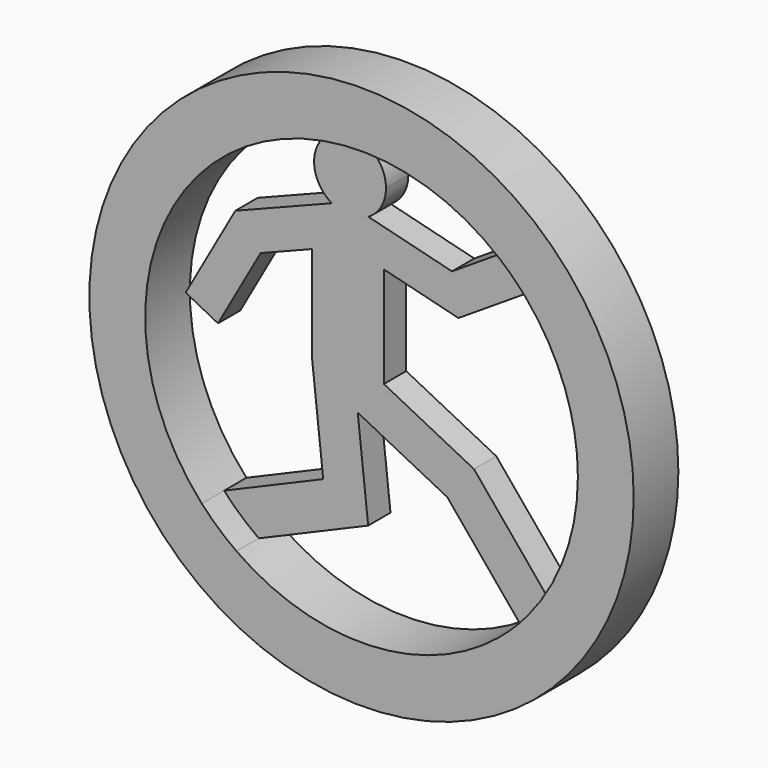
from build123d import *

# Parameters (mm, degrees)
F0_R     = 9.75
F1_DEPTH = 2
F2_DEPTH = 1


with BuildPart() as f1:
    # F0 (on Front) → F1 (new body)
    with BuildSketch(Plane.XZ):
        Circle(F0_R)
        with BuildLine():
            ThreePointArc((5.900162, 5.024996), (7.272852, 2.677335), (7.75, 0))
            ThreePointArc((7.75, 0), (7.291207, -2.626937), (5.969148, -4.94285))
            ThreePointArc((5.969148, -4.94285), (5.460617, -5.499469), (4.900407, -6.004041))
            ThreePointArc((4.900407, -6.004041), (0.264808, -7.745475), (-4.478902, -6.324708))
            ThreePointArc((-4.478902, -6.324708), (-5.130617, -5.808551), (-5.723293, -5.225554))
            ThreePointArc((-5.723293, -5.225554), (-5.606607, 5.350557), (4.952509, 5.961137))
            ThreePointArc((4.952509, 5.961137), (5.446486, 5.513464), (5.900162, 5.024996))
        make_face(mode=Mode.SUBTRACT)
    extrude(amount=F1_DEPTH)

    # F0 (on Front) → F2 (join)
    with BuildSketch(Plane.XZ):
        with BuildLine():
            Line((2.66991, 2.947026), (5.900162, 5.024996))
            ThreePointArc((5.900162, 5.024996), (5.446486, 5.513464), (4.952509, 5.961137))
            Line((4.952509, 5.961137), (2.439513, 4.344566))
            Line((2.439513, 4.344566), (-0.556524, 5.093197))
            ThreePointArc((-0.556524, 5.093197), (-1.211796, 4.914044), (-1.867069, 5.093197))
            Line((-1.867069, 5.093197), (-5.321849, 3.732082))
            Line((-5.321849, 3.732082), (-7.098299, 0.575243))
            Line((-7.098299, 0.575243), (-5.942405, -0.021499))
            Line((-5.942405, -0.021499), (-4.415483, 2.691917))
            Line((-4.415483, 2.691917), (-2.575406, 3.416871))
            Line((-2.575406, 3.416871), (-2.575406, 0))
            Line((-2.575406, 0), (-2.173541, -3.707017))
            Line((-2.173541, -3.707017), (-5.723293, -5.225554))
            ThreePointArc((-5.723293, -5.225554), (-5.130617, -5.808551), (-4.478902, -6.324708))
            Line((-4.478902, -6.324708), (-0.562596, -4.649364))
            Line((-0.562596, -4.649364), (-0.935716, -1.207506))
            Line((-0.935716, -1.207506), (2.273192, -2.832666))
            Line((2.273192, -2.832666), (4.900407, -6.004041))
            ThreePointArc((4.900407, -6.004041), (5.460617, -5.499469), (5.969148, -4.94285))
            Line((5.969148, -4.94285), (3.229264, -1.635469))
            Line((3.229264, -1.635469), (0, 0))
            Line((0, 0), (0, 3.614166))
            Line((0, 3.614166), (2.66991, 2.947026))
        make_face()
        with BuildLine():
            ThreePointArc((-1.867069, 5.093197), (-1.211796, 4.914044), (-0.556524, 5.093197))
            ThreePointArc((-0.556524, 5.093197), (-0.093147, 5.563691), (0.076148, 6.201988))
            ThreePointArc((0.076148, 6.201988), (-1.850093, 7.320638), (-1.867069, 5.093197))
        make_face()
    extrude(amount=F2_DEPTH)


solid = f1.part
